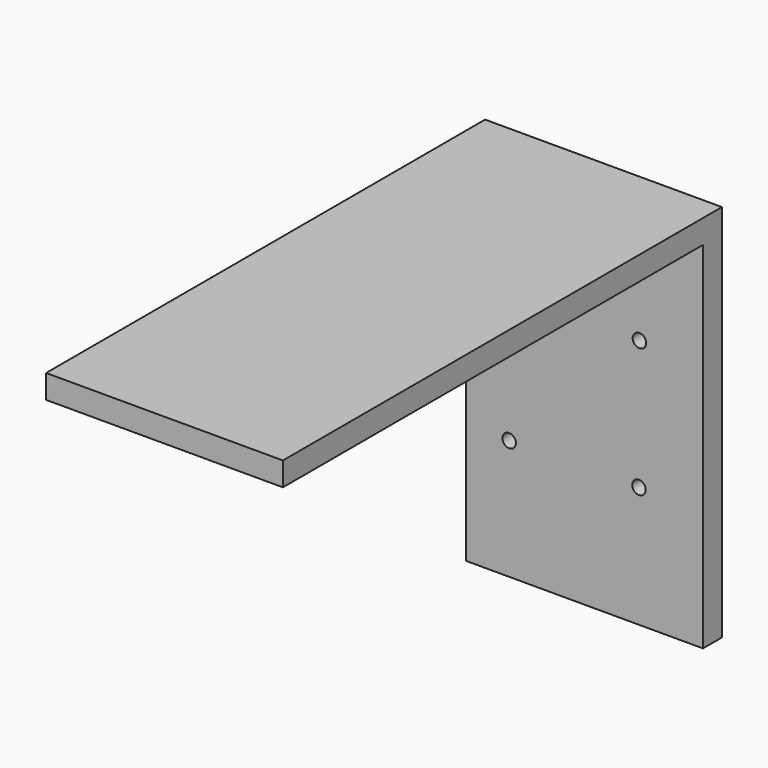
from build123d import *

# Parameters (mm, degrees)
F0_W      = 127
F0_H      = 203.2
F1_DEPTH  = 12.7
F2_W      = 127
F2_H      = 281.5760534146
F3_DEPTH  = 12.7
F4_R      = 3.6195
F5_DEPTH  = 12.7
F6_R      = 3.6195
F7_DEPTH  = 12.7
F8_R      = 3.6195
F9_DEPTH  = 12.7
F10_R     = 3.6195
F11_DEPTH = 12.7


with BuildPart() as f1:
    # F0 (on Front) → F1 (new body)
    with BuildSketch(Plane.XZ):
        with Locations((63.5, 101.6)):
            Rectangle(F0_W, F0_H)
    extrude(amount=-F1_DEPTH)

    # F2 (on face) → F3 (join)
    with BuildSketch(Plane.XY.offset(203.2)):
        with Locations((63.5, -140.7880267073)):
            Rectangle(F2_W, F2_H)
    extrude(amount=-F3_DEPTH)

    # F4 (on face) → F5 (cut)
    with BuildSketch(Plane.XZ):
        with Locations((92.6856547594, 64.833432436)):
            Circle(F4_R)
    extrude(amount=-F5_DEPTH, mode=Mode.SUBTRACT)

    # F6 (on face) → F7 (cut)
    with BuildSketch(Plane.XZ):
        with Locations((92.9278507829, 134.2175006866)):
            Circle(F6_R)
    extrude(amount=-F7_DEPTH, mode=Mode.SUBTRACT)

    # F8 (on face) → F9 (cut)
    with BuildSketch(Plane.XZ):
        with Locations((23.0624806136, 64.2787441611)):
            Circle(F8_R)
    extrude(amount=-F9_DEPTH, mode=Mode.SUBTRACT)

    # F10 (on face) → F11 (cut)
    with BuildSketch(Plane.XZ):
        with Locations((23.0022147298, 134.1594159603)):
            Circle(F10_R)
    extrude(amount=-F11_DEPTH, mode=Mode.SUBTRACT)


solid = f1.part
